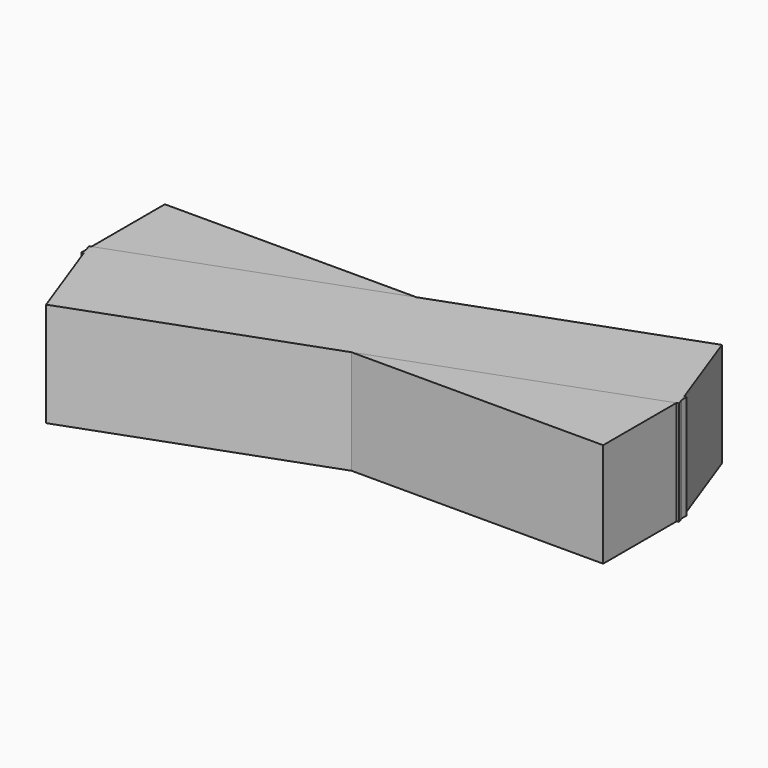
from build123d import *

# Parameters (mm, degrees)
BOX_W                  = 10
BOX_H                  = 2
BOX_DEPTH              = 2
BOX001_W               = 10
BOX001_H               = 2
BOX001_DEPTH           = 2
BOX001_PLACEMENT_ANGLE = 20


with BuildPart() as cub:
    # Box → Box (new body)
    with BuildSketch(Plane.XY):
        with Locations((5, 1)):
            Rectangle(BOX_W, BOX_H)
    extrude(amount=BOX_DEPTH)


with BuildPart() as cub001:
    # Box001 → Box001 (new body)
    with BuildSketch(Plane.XY):
        with Locations((5, 1)):
            Rectangle(BOX001_W, BOX001_H)
    extrude(amount=BOX001_DEPTH)


with BuildPart() as cub001_1:
    # Box001 placement: moved
    add(cub001.part.moved(Location((0.643557, -1.649793, 0))).rotate(Axis((0.643557, -1.649793, 0), (0, 0, 1)), BOX001_PLACEMENT_ANGLE))


solid = Compound([cub.part, cub001_1.part])
